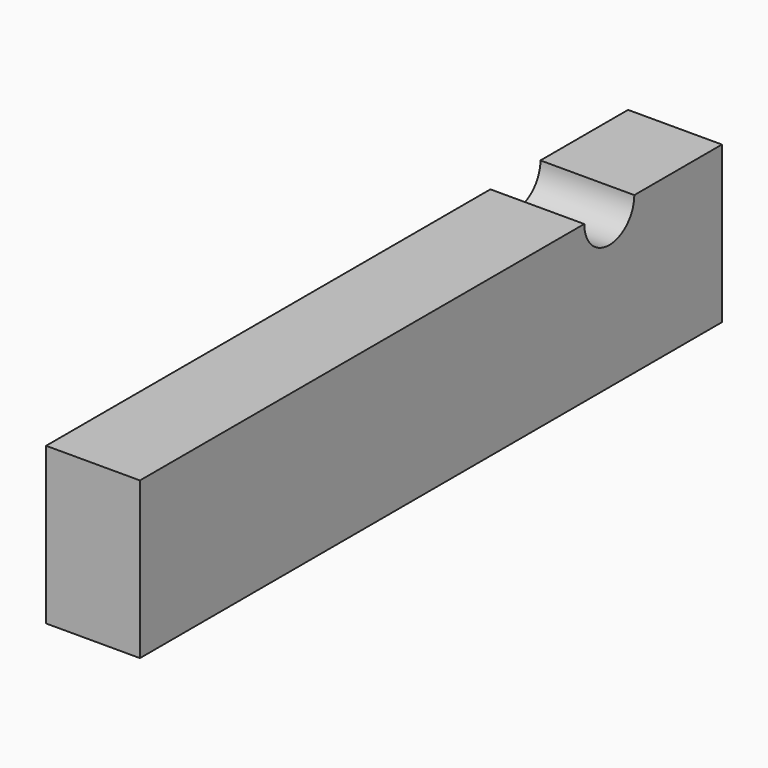
from build123d import *

# Parameters (mm, degrees)
F1_DEPTH = 12


with BuildPart() as f1:
    # F0 (on Right) → F1 (new body)
    with BuildSketch(Plane.YZ):
        with BuildLine():
            Line((57, 0), (0, 0))
            Line((0, 0), (0, -20))
            Line((0, -20), (93, -20))
            Line((93, -20), (93, 0))
            Line((93, 0), (85, 0))
            Line((85, 0), (79, 0))
            ThreePointArc((79, 0), (75, -4), (71, 0))
            Line((71, 0), (65, 0))
            Line((65, 0), (57, 0))
        make_face()
    extrude(amount=F1_DEPTH)


solid = f1.part
